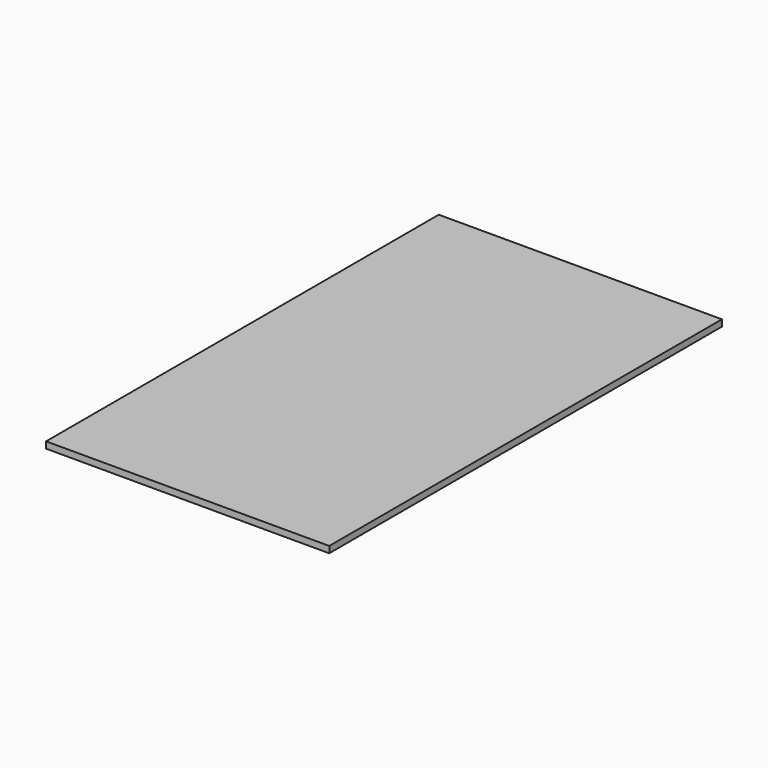
from build123d import *

# Parameters (mm, degrees)
F0_W     = 25.4
F0_H     = 50.8
F1_DEPTH = 8.73125


with BuildPart() as f1:
    # F0 (on Top) → F1 (new body)
    with BuildSketch(Plane.XY):
        Polygon((-165.1, 279.4), (-1.758172, -330.2), (186.852724, -330.2), align=None)
        Polygon((-190.5, -330.2), (-1.758172, -330.2), (-165.1, 279.4), (-190.5, 279.4), align=None)
        Polygon((-165.1, 279.4), (186.852724, -330.2), (190.5, -330.2), (190.5, -76.2), align=None)
        with Locations((-177.8, 304.8)):
            Rectangle(F0_W, F0_H)
        Polygon((-165.1, 330.2), (-165.1, 279.4), (190.5, 184.117267), (190.5, 330.2), align=None)
        Polygon((190.5, 184.117267), (-165.1, 279.4), (190.5, 74.094244), align=None)
        Polygon((190.5, 74.094244), (-165.1, 279.4), (190.5, -76.2), align=None)
    extrude(amount=F1_DEPTH)


solid = f1.part
